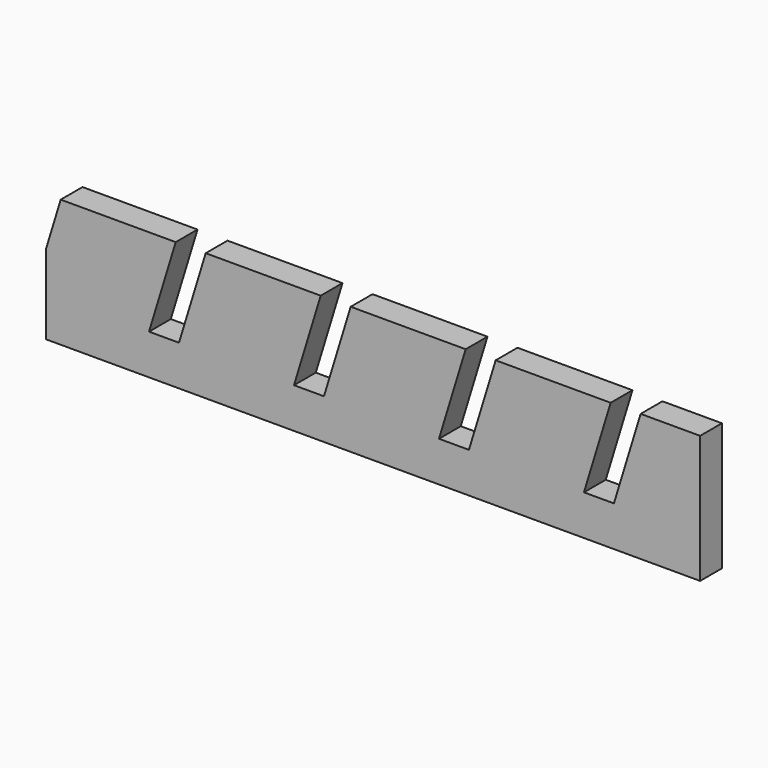
from build123d import *

# Parameters (mm, degrees)
F1_DEPTH = 5


with BuildPart() as f1:
    # F0 (on Front) → F1 (new body)
    with BuildSketch(Plane.XZ):
        Polygon((0, 14.642703), (0, 0), (120, 0), (120, 23.440619), (109.085178, 23.440619), (104.184717, 7.384384), (98.684717, 7.384384), (103.585178, 23.440619), (82.485178, 23.440619), (77.584717, 7.384384), (72.084717, 7.384384), (76.985178, 23.440619), (55.885178, 23.440619), (50.984717, 7.384384), (45.484717, 7.384384), (50.385178, 23.440619), (29.285178, 23.440619), (24.384717, 7.384384), (18.884717, 7.384384), (23.785178, 23.440619), (2.685178, 23.440619), align=None)
    extrude(amount=F1_DEPTH)


solid = f1.part
